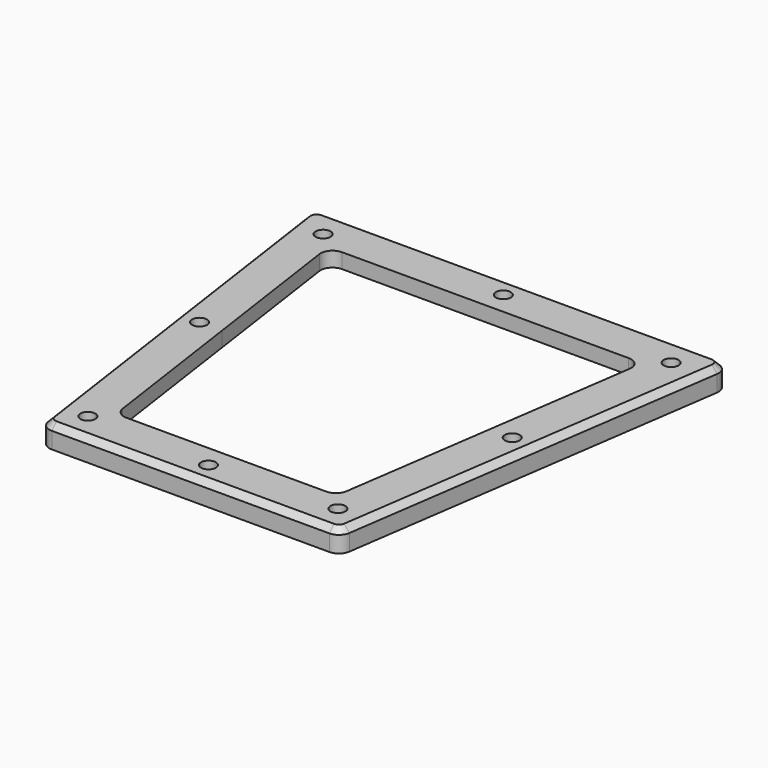
from build123d import *

# Parameters (mm, degrees)
F0_R     = 3.175
F1_DEPTH = 9.525
F2_R     = 5.08
F3_SIZE  = 2.54
F5_DEPTH = 3.175
F6_R     = 7.4295
F7_DEPTH = 3.175


with BuildPart() as f1:
    # F0 (on Top) → F1 (new body)
    with BuildSketch(Plane.XY):
        Polygon((25.4, 175.976362), (-152.4, 175.976362), (-139.7, 87.988181), (-127, 0), (0, 0), align=None)
        with Locations((-116.737792, 11.849777)):
            Circle(F0_R, mode=Mode.SUBTRACT)
        with BuildLine():
            ThreePointArc((-126.901293, 87.988181), (-130.076293, 84.813181), (-133.251293, 87.988181))
            ThreePointArc((-133.251293, 87.988181), (-130.076293, 91.163181), (-126.901293, 87.988181))
        make_face(mode=Mode.SUBTRACT)
        with Locations((-63.5, 9.525)):
            Circle(F0_R, mode=Mode.SUBTRACT)
        with Locations((-10.262208, 11.849777)):
            Circle(F0_R, mode=Mode.SUBTRACT)
        with Locations((3.076293, 87.988181)):
            Circle(F0_R, mode=Mode.SUBTRACT)
        with Locations((-137.603178, 163.161938)):
            Circle(F0_R, mode=Mode.SUBTRACT)
        Polygon((-110.502216, 19.05), (-120.452585, 87.988181), (-130.402955, 156.926362), (3.402955, 156.926362), (-16.497784, 19.05), align=None, mode=Mode.SUBTRACT)
        with Locations((-63.5, 166.451362)):
            Circle(F0_R, mode=Mode.SUBTRACT)
        with Locations((10.603178, 163.161938)):
            Circle(F0_R, mode=Mode.SUBTRACT)
    extrude(amount=F1_DEPTH)

    # F2
    f2_edges = [f1.edges().sort_by_distance(p)[0] for p in [
        (-152.4, 175.976362, 4.7625),
        (-130.402955, 156.926362, 4.7625),
        (25.4, 175.976362, 4.7625),
        (3.402955, 156.926362, 4.7625),
        (-127, 0, 4.7625),
        (0, 0, 4.7625),
        (-16.497784, 19.05, 4.7625),
        (-110.502216, 19.05, 4.7625),
    ]]
    fillet(f2_edges, radius=F2_R)

    # F3
    f3_edges = [f1.edges().sort_by_distance(p)[0] for p in [
        (-63.5, 0, 9.525),
    ]]
    chamfer(f3_edges, length=F3_SIZE)

    # F4 (on face) → F5 (cut)
    with BuildSketch(Plane(origin=(0, 0, 0), x_dir=(1, 0, 0), z_dir=(0, 0, -1))):
        with BuildLine():
            ThreePointArc((-3.299557, -21.59), (-9.257451, -10.689583), (-20.897193, -6.35))
            Line((-20.897193, -6.35), (-106.102807, -6.35))
            ThreePointArc((-106.102807, -6.35), (-117.742549, -10.689583), (-123.700443, -21.59))
            Line((-123.700443, -21.59), (-142.134712, -149.306362))
            ThreePointArc((-142.134712, -149.306362), (-137.977493, -163.486104), (-124.537076, -169.626362))
            Line((-124.537076, -169.626362), (-2.462924, -169.626362))
            ThreePointArc((-2.462924, -169.626362), (10.977493, -163.486104), (15.134712, -149.306362))
            Line((15.134712, -149.306362), (-3.299557, -21.59))
        make_face()
    extrude(amount=-F5_DEPTH, mode=Mode.SUBTRACT)

    # F6 (on face) → F7 (cut, through all)
    with BuildSketch(Plane(origin=(0, 0, 0), x_dir=(1, 0, 0), z_dir=(0, 0, -1))):
        with Locations((-116.737792, -11.849777)):
            Circle(F6_R)
        with Locations((-63.5, -9.525)):
            Circle(F6_R)
        with Locations((-10.262208, -11.849777)):
            Circle(F6_R)
        with Locations((3.076293, -87.988181)):
            Circle(F6_R)
        with Locations((-63.5, -166.451362)):
            Circle(F6_R)
        with Locations((-137.603178, -163.161938)):
            Circle(F6_R)
        with Locations((10.603178, -163.161938)):
            Circle(F6_R)
        with Locations((-130.076293, -87.988181)):
            Circle(F6_R)
    extrude(amount=-F7_DEPTH, mode=Mode.SUBTRACT)


solid = f1.part
